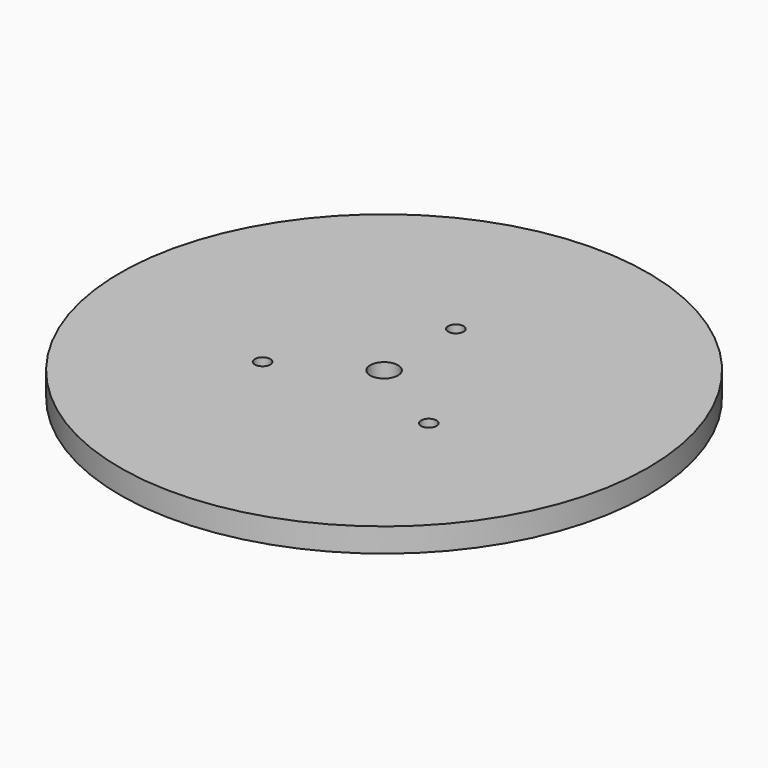
from build123d import *

# Parameters (mm, degrees)
F0_R     = 55
F0_R_2   = 1.6
F0_R_3   = 2.9
F1_DEPTH = 5
F2_R     = 10
F3_DEPTH = 10
F4_R     = 2.9
F5_DEPTH = 10
F6_R     = 2.5
F7_DEPTH = 10
F8_R     = 6
F8_R_2   = 5
F9_DEPTH = 1.5


with BuildPart() as f1:
    # F0 (on Top) → F1 (new body)
    with BuildSketch(Plane.XY):
        Circle(F0_R)
        with Locations((-17.320508, -10)):
            Circle(F0_R_2, mode=Mode.SUBTRACT)
        with Locations((17.320508, -10)):
            Circle(F0_R_2, mode=Mode.SUBTRACT)
        Circle(F0_R_3, mode=Mode.SUBTRACT)
        with Locations((0, 18.7)):
            Circle(F0_R_2, mode=Mode.SUBTRACT)
    extrude(amount=F1_DEPTH)

    # F2 (on face) → F3 (join)
    with BuildSketch(Plane(origin=(0, 0, 0), x_dir=(1, 0, 0), z_dir=(0, 0, -1))):
        Circle(F2_R)
    extrude(amount=F3_DEPTH)

    # F4 (on face) → F5 (cut)
    with BuildSketch(Plane.XY.offset(5)):
        Circle(F4_R)
    extrude(amount=-F5_DEPTH, mode=Mode.SUBTRACT)

    # F6 (on face) → F7 (join)
    with BuildSketch(Plane(origin=(0, 0, -10), x_dir=(1, 0, 0), z_dir=(0, 0, -1))):
        Circle(F6_R)
    extrude(amount=F7_DEPTH)

    # F8 (on face) → F9 (cut)
    with BuildSketch(Plane(origin=(0, 0, 0), x_dir=(1, 0, 0), z_dir=(0, 0, -1))):
        with Locations((-17.320508, 10)):
            Circle(F8_R)
        with Locations((17.320508, 10)):
            Circle(F8_R)
        with Locations((0, -18.7)):
            Circle(F8_R_2)
    extrude(amount=-F9_DEPTH, mode=Mode.SUBTRACT)


solid = f1.part
